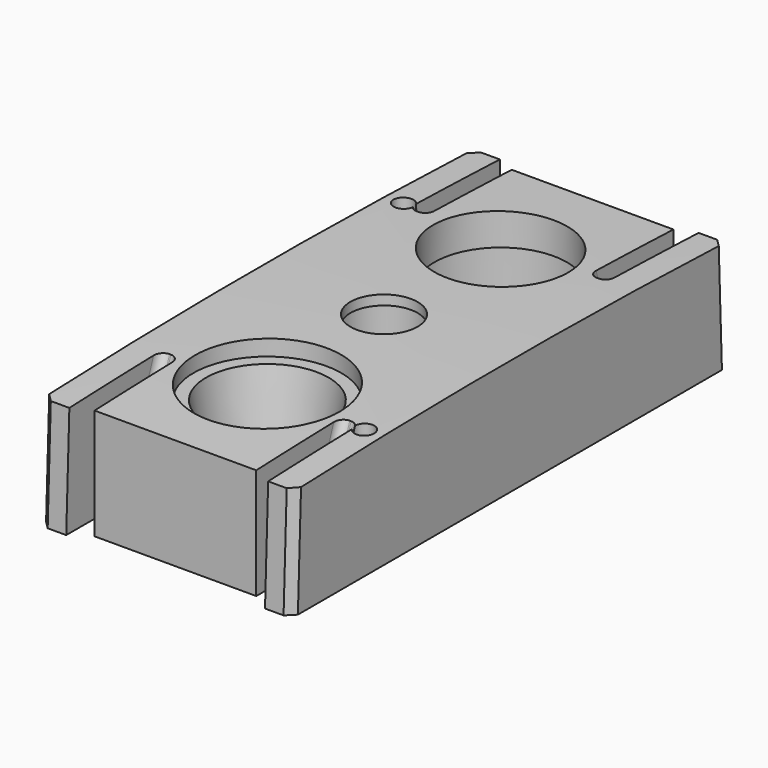
from build123d import *

# Parameters (mm, degrees)
PAD008_DEPTH    = 9.5
SKETCH017_W     = 3
SKETCH017_H     = 10
POCKET002_DEPTH = 7.5
POCKET003_DEPTH = 0.7
POCKET004_DEPTH = 0.7
CHAMFER001_SIZE = 0.6
FILLET002_R     = 0.65
SKETCH014_R     = 1.05
POCKET005_DEPTH = 2
POCKET006_DEPTH = 8
SKETCH022_R     = 2.5375
POCKET007_DEPTH = 8.736873
SKETCH021_R     = 5.575
POCKET008_DEPTH = 1.236873
SKETCH024_R     = 6.075
POCKET009_DEPTH = 6.1
SKETCH025_R     = 5
POCKET010_DEPTH = 8.736873
SKETCH015_R     = 0.75
POCKET011_DEPTH = 8.736873


with BuildPart() as part:
    # Sketch016 → Pad008 (new body, symmetric)
    with BuildSketch(Plane.YZ):
        with BuildLine():
            ThreePointArc((20.3007, 8.33036), (0, 8.735873), (-20.3007, 8.33036))
            Line((-20.3007, 8.33036), (-20.59728, 0))
            Line((20.59728, 0), (-20.59728, 0))
            Line((20.3007, 8.33036), (20.59728, 0))
        make_face()
    extrude(amount=PAD008_DEPTH, both=True)

    # Sketch017 → Pocket002 (cut, symmetric)
    with BuildSketch(Plane.YZ):
        with Locations((21.175, 5)):
            Rectangle(SKETCH017_W, SKETCH017_H)
        with Locations((-21.175, 5)):
            Rectangle(SKETCH017_W, SKETCH017_H)
    extrude(amount=POCKET002_DEPTH, both=True, mode=Mode.SUBTRACT)

    # Sketch018 → Pocket003 (cut, symmetric)
    with BuildSketch(Plane.YZ.offset(6.8)):
        Polygon((-19.925, 8.9), (-11.553945, 8.9), (-18.398945, -9.9), (-19.925, -9.9), align=None)
        Polygon((19.925, 8.9), (11.553945, 8.9), (18.398945, -9.9), (19.925, -9.9), align=None)
    extrude(amount=POCKET003_DEPTH, both=True, mode=Mode.SUBTRACT)

    # Sketch019 → Pocket004 (cut, symmetric)
    with BuildSketch(Plane.YZ.offset(-6.8)):
        Polygon((-19.925, 8.9), (-11.553945, 8.9), (-18.398945, -9.9), (-19.925, -9.9), align=None)
        Polygon((19.925, 8.9), (11.553945, 8.9), (18.398945, -9.9), (19.925, -9.9), align=None)
    extrude(amount=POCKET004_DEPTH, both=True, mode=Mode.SUBTRACT)

    # Chamfer001
    chamfer001_edges = [part.edges().sort_by_distance(p)[0] for p in [
        (9.5, 20.44899, 4.16518),
        (9.5, -20.44899, 4.16518),
        (-9.5, -20.44899, 4.16518),
        (-9.5, 20.44899, 4.16518),
    ]]
    chamfer(chamfer001_edges, length=CHAMFER001_SIZE)

    # Fillet002
    fillet002_edges = [part.edges().sort_by_distance(p)[0] for p in [
        (7.5, 13.228407, 4.301038),
        (7.5, -13.228407, 4.301038),
        (-6.1, -13.228407, 4.301038),
        (-6.1, 13.228407, 4.301038),
        (-7.5, -13.228407, 4.301038),
        (6.1, -13.228407, 4.301038),
        (6.1, 13.228407, 4.301038),
        (-7.5, 13.228407, 4.301038),
    ]]
    fillet(fillet002_edges, radius=FILLET002_R)

    # Sketch014 → Pocket005 (cut)
    with BuildSketch(Plane.XY):
        with Locations((7.25, 10.4875)):
            Circle(SKETCH014_R)
        with Locations((7.25, 12.9875)):
            Circle(SKETCH014_R)
        with BuildLine():
            ThreePointArc((5.7075, 6.5725), (4.5575, 5.4225), (5.7075, 4.2725))
            Line((5.7075, 4.2725), (7.5075, 4.2725))
            ThreePointArc((7.5075, 4.2725), (8.6575, 5.4225), (7.5075, 6.5725))
            Line((7.5075, 6.5725), (5.7075, 6.5725))
        make_face()
        with BuildLine():
            ThreePointArc((7.8, -5.15), (6.95, -6), (7.8, -6.85))
            Line((7.8, -6.85), (8.35, -6.85))
            ThreePointArc((8.35, -6.85), (9.2, -6), (8.35, -5.15))
            Line((8.35, -5.15), (7.8, -5.15))
        make_face()
        with BuildLine():
            ThreePointArc((5.0575, 2.7625), (4.703947, 2.616053), (4.5575, 2.2625))
            Line((4.5575, 0.9625), (4.5575, 2.2625))
            ThreePointArc((4.5575, 0.9625), (4.703947, 0.608947), (5.0575, 0.4625))
            Line((8.1575, 0.4625), (5.0575, 0.4625))
            ThreePointArc((8.1575, 0.4625), (8.511053, 0.608947), (8.6575, 0.9625))
            Line((8.6575, 2.2625), (8.6575, 0.9625))
            ThreePointArc((8.6575, 2.2625), (8.511053, 2.616053), (8.1575, 2.7625))
            Line((5.0575, 2.7625), (8.1575, 2.7625))
        make_face()
        with BuildLine():
            ThreePointArc((7.45, -3.15), (7.096447, -3.296447), (6.95, -3.65))
            Line((6.95, -4.35), (6.95, -3.65))
            ThreePointArc((6.95, -4.35), (7.096447, -4.703553), (7.45, -4.85))
            Line((8.7, -4.85), (7.45, -4.85))
            ThreePointArc((8.7, -4.85), (9.053553, -4.703553), (9.2, -4.35))
            Line((9.2, -3.65), (9.2, -4.35))
            ThreePointArc((9.2, -3.65), (9.053553, -3.296447), (8.7, -3.15))
            Line((7.45, -3.15), (8.7, -3.15))
        make_face()
    extrude(amount=POCKET005_DEPTH, mode=Mode.SUBTRACT)

    # Sketch020 → Pocket006 (cut)
    with BuildSketch(Plane.XY):
        with BuildLine():
            ThreePointArc((2.625, 1.290349), (-2.925, 0), (2.625, -1.290349))
            Line((2.625, -1.290349), (2.625, 1.290349))
        make_face()
    extrude(amount=POCKET006_DEPTH, mode=Mode.SUBTRACT)

    # Sketch022 → Pocket007 (cut, through all)
    with BuildSketch(Plane.XY):
        Circle(SKETCH022_R)
    extrude(amount=POCKET007_DEPTH, mode=Mode.SUBTRACT)

    # Sketch021 → Pocket008 (cut, through all)
    with BuildSketch(Plane.XY.offset(7.5)):
        with Locations((0, -11)):
            Circle(SKETCH021_R)
    extrude(amount=POCKET008_DEPTH, mode=Mode.SUBTRACT)

    # Cone → Cone (revolve, cut)
    with BuildSketch(Plane(origin=(0, -11, 0), x_dir=(0, 1, 0), z_dir=(1, 0, 0))):
        Polygon((0, 0), (3.5, 0), (5, 10), (0, 10), align=None)
    revolve(axis=Axis((0, -11, 0), (0, 0, 1)), mode=Mode.SUBTRACT)

    # Sketch024 → Pocket009 (cut)
    with BuildSketch(Plane.XY):
        with Locations((0, 11)):
            Circle(SKETCH024_R)
    extrude(amount=POCKET009_DEPTH, mode=Mode.SUBTRACT)

    # Sketch025 → Pocket010 (cut, through all)
    with BuildSketch(Plane.XY):
        with Locations((0, 11)):
            Circle(SKETCH025_R)
    extrude(amount=POCKET010_DEPTH, mode=Mode.SUBTRACT)

    # Sketch015 → Pocket011 (cut, through all)
    with BuildSketch(Plane.XY):
        with Locations((-8.125, 12)):
            Circle(SKETCH015_R)
        with Locations((8.125, -12)):
            Circle(SKETCH015_R)
    extrude(amount=POCKET011_DEPTH, mode=Mode.SUBTRACT)


with BuildPart() as part_1:
    # Body005 placement: moved
    add(part.part.moved(Location((0, 0, 1.9))))


solid = part_1.part
